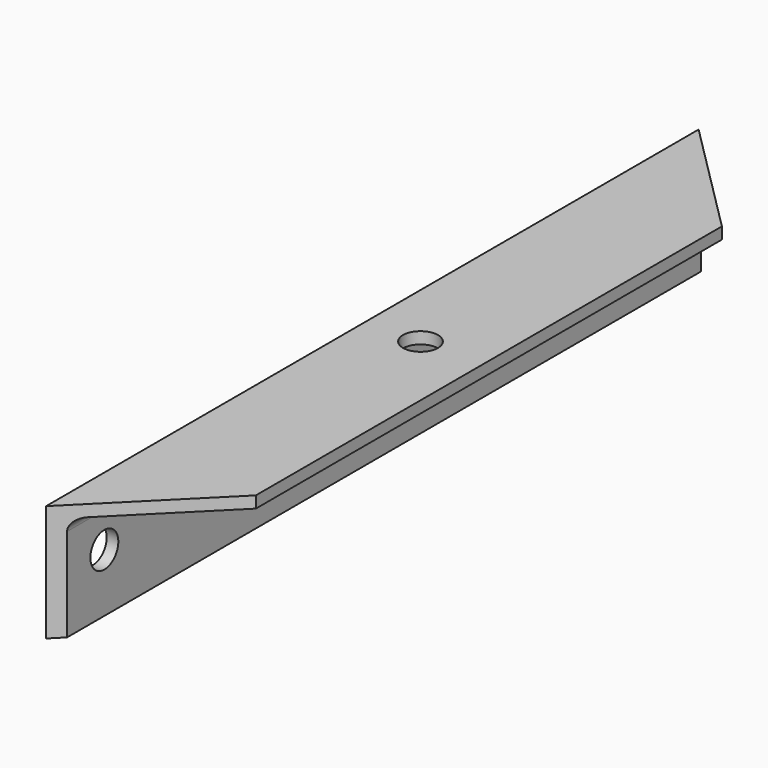
from build123d import *

# Parameters (mm, degrees)
F1_DEPTH = 210
F3_D     = 9
F3_DEPTH = 12
F3_TIP   = 2.7038727856
F5_D     = 10.5
F5_DEPTH = 12
F5_TIP   = 3.1545182499
F7_D     = 9
F7_DEPTH = 12
F7_TIP   = 2.7038727856
F9_DEPTH = 94


with BuildPart() as f1:
    # F0 (on Front) → F1 (new body)
    with BuildSketch(Plane.XZ):
        with BuildLine():
            Line((0, 30), (0, 0))
            Line((0, 0), (3, 0))
            Line((3, 0), (3, 24))
            ThreePointArc((3, 24), (3.8786796564, 26.1213203436), (6, 27))
            Line((6, 27), (30, 27))
            Line((30, 27), (30, 30))
            Line((30, 30), (0, 30))
        make_face()
    extrude(amount=F1_DEPTH)

    # F3
    with Locations(Plane.YZ.offset(3)):
        with Locations((-195, 15), (-15, 15)):
            Hole(F3_D / 2, depth=F3_DEPTH)
            with Locations((0, 0, -(F3_DEPTH + F3_TIP / 2))):  # 118° drill point
                Cone(0, F3_D / 2, F3_TIP, mode=Mode.SUBTRACT)

    # F5
    with Locations(Plane.YZ.offset(3)):
        with Locations((-38, 15)):
            Hole(F5_D / 2, depth=F5_DEPTH)
            with Locations((0, 0, -(F5_DEPTH + F5_TIP / 2))):  # 118° drill point
                Cone(0, F5_D / 2, F5_TIP, mode=Mode.SUBTRACT)

    # F7
    with Locations(Plane(origin=(0, 0, 27), x_dir=(1, 0, 0), z_dir=(0, 0, -1))):
        with Locations((14, 107)):
            Hole(F7_D / 2, depth=F7_DEPTH)
            with Locations((0, 0, -(F7_DEPTH + F7_TIP / 2))):  # 118° drill point
                Cone(0, F7_D / 2, F7_TIP, mode=Mode.SUBTRACT)

    # F8 (on face) → F9 (cut)
    with BuildSketch(Plane(origin=(0, 0, 0), x_dir=(1, 0, 0), z_dir=(0, 0, -1))):
        Polygon((30, 30), (3, 3), (3, 0), (30, 0), align=None)
        Polygon((3, 210), (3, 207), (30, 180), (30, 210), align=None)
        Polygon((3, 3), (0, 0), (3, 0), align=None)
        Polygon((3, 210), (0, 210), (3, 207), align=None)
    extrude(amount=-F9_DEPTH, mode=Mode.SUBTRACT)


solid = f1.part
